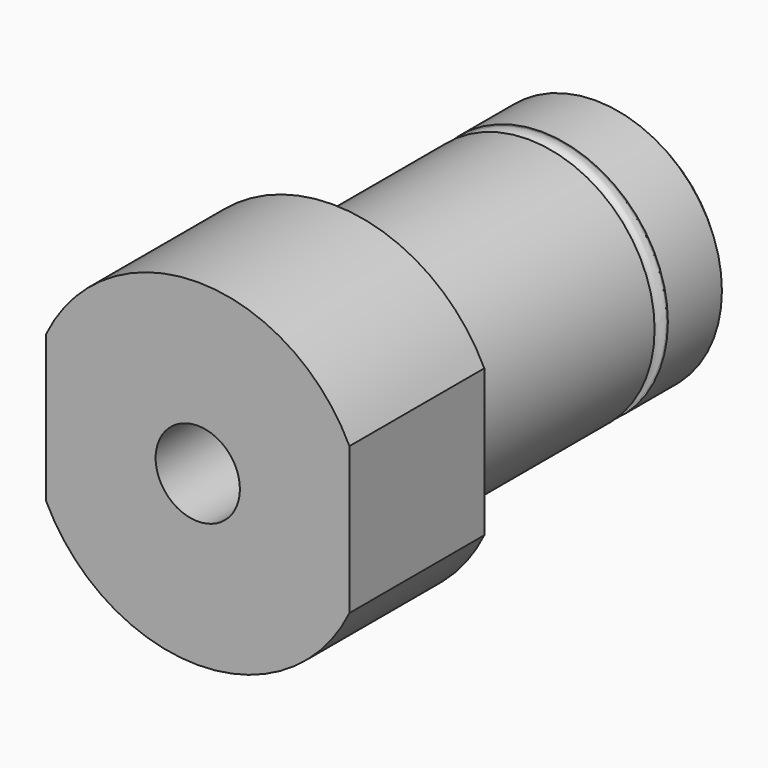
from build123d import *

# Parameters (mm, degrees)
F0_R      = 20
F2_DEPTH  = 20
F4_DEPTH  = 20.001
F6_DEPTH  = 20.001
F8_W      = 40
F8_H      = 15
F12_SIZE  = 1
F7_R      = 5
F13_DEPTH = 60.001
F10_R     = 1


with BuildPart() as f2:
    # F0 (on Front) → F2 (new body)
    with BuildSketch(Plane.XZ):
        Circle(F0_R)
    extrude(amount=F2_DEPTH)

    # F3 (on face) → F4 (cut, through all)
    with BuildSketch(Plane.XZ.offset(20)):
        with BuildLine():
            Line((-18, -8.717798), (-18, 8.717798))
            ThreePointArc((-18, 8.717798), (-20, 0), (-18, -8.717798))
        make_face()
    extrude(amount=-F4_DEPTH, mode=Mode.SUBTRACT)

    # F5 (on face) → F6 (cut, through all)
    with BuildSketch(Plane.XZ.offset(20)):
        with BuildLine():
            ThreePointArc((18, -8.717798), (20, 0), (18, 8.717798))
            Line((18, 8.717798), (18, -8.717798))
        make_face()
    extrude(amount=-F6_DEPTH, mode=Mode.SUBTRACT)

    # F8 (on Right) → F11 (revolve)
    with BuildSketch(Plane.YZ):
        with Locations((20, 7.5)):
            Rectangle(F8_W, F8_H)
    revolve(axis=Axis((0, 20, 0), (0, 1, 0)))

    # F12
    f12_edges = [f2.edges().sort_by_distance(p)[0] for p in [
        (0, 40, -15),
    ]]
    chamfer(f12_edges, length=F12_SIZE)

    # F7 (on face) → F13 (cut, through all)
    with BuildSketch(Plane.XZ.offset(20)):
        Circle(F7_R)
    extrude(amount=-F13_DEPTH, mode=Mode.SUBTRACT)

    # F10 (on face) → F14 (revolve, cut)
    with BuildSketch(Plane.YZ):
        with Locations((30, 14.820702)):
            Circle(F10_R)
    revolve(axis=Axis((0, 4.966939, 0), (0, 1, 0)), mode=Mode.SUBTRACT)


solid = f2.part
